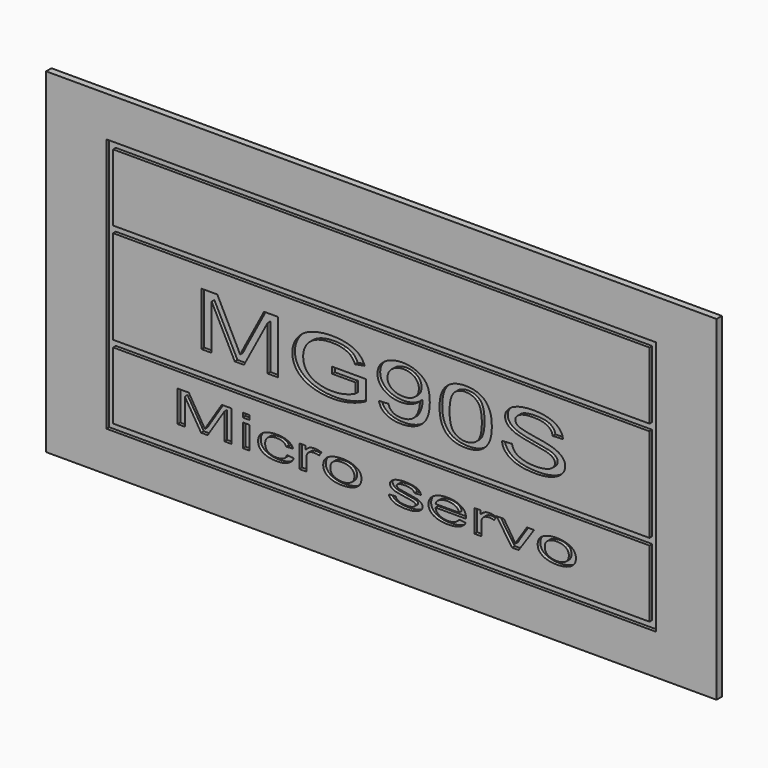
from build123d import *

# Parameters (mm, degrees)
EXTRUDE002_DEPTH = 0.2
EXTRUDE001_DEPTH = 0.2
SKETCH012_W      = 16.4
SKETCH012_H      = 7.6
SKETCH012_W_2    = 16
SKETCH012_H_2    = 2.8
SKETCH012_H_3    = 2
EXTRUDE003_DEPTH = 0.2
SKETCH011_W      = 20
SKETCH011_H      = 10
EXTRUDE_DEPTH    = 0.2


with BuildPart() as extrude002:
    # Clone2D → Extrude002 (new body)
    with BuildSketch(Plane(origin=(-11, -6.1, -8.6), x_dir=(1, 0, 0), z_dir=(0, -1, 0))):
        with BuildLine():
            add(Edge.make_bspline(
                [(0.242548, 0), (0.242548, 1.589265)],
                knots=[0, 0, 1.589265, 1.589265], degree=1))
            add(Edge.make_bspline(
                [(0.547465, 0), (0.242548, 0)],
                knots=[0, 0, 0.203278, 0.203278], degree=1))
            add(Edge.make_bspline(
                [(0.547465, 1.349028), (0.547465, 0)],
                knots=[0, 0, 1.349028, 1.349028], degree=1))
            add(Edge.make_bspline(
                [(1.236885, 0), (0.547465, 1.349028)],
                knots=[0, 0, 1.425174, 1.425174], degree=1))
            add(Edge.make_bspline(
                [(1.51235, 0), (1.236885, 0)],
                knots=[0, 0, 0.183643, 0.183643], degree=1))
            add(Edge.make_bspline(
                [(2.21758, 1.330548), (1.51235, 0)],
                knots=[0, 0, 1.41117, 1.41117], degree=1))
            add(Edge.make_bspline(
                [(2.21758, 0), (2.21758, 1.330548)],
                knots=[0, 0, 1.330548, 1.330548], degree=1))
            add(Edge.make_bspline(
                [(2.522497, 0), (2.21758, 0)],
                knots=[0, 0, 0.203278, 0.203278], degree=1))
            add(Edge.make_bspline(
                [(2.522497, 1.589265), (2.522497, 0)],
                knots=[0, 0, 1.589265, 1.589265], degree=1))
            add(Edge.make_bspline(
                [(2.110382, 1.589265), (2.522497, 1.589265)],
                knots=[0, 0, 0.274743, 0.274743], degree=1))
            add(Edge.make_bspline(
                [(1.52621, 0.484807), (2.110382, 1.589265)],
                knots=[0, 0, 1.17111, 1.17111], degree=1))
            add(Edge.make_bspline(
                [(1.396382, 0.230348), (1.437962, 0.316972), (1.52621, 0.484807)],
                knots=[0, 0, 0, 1, 1, 1], degree=2))
            add(Edge.make_bspline(
                [(1.282038, 0.465316), (1.360433, 0.30831), (1.396382, 0.230348)],
                knots=[0, 0, 0, 1, 1, 1], degree=2))
            add(Edge.make_bspline(
                [(0.715516, 1.589265), (1.282038, 0.465316)],
                knots=[0, 0, 1.185709, 1.185709], degree=1))
            add(Edge.make_bspline(
                [(0.242548, 1.589265), (0.715516, 1.589265)],
                knots=[0, 0, 0.315312, 0.315312], degree=1))
        make_face()
        with BuildLine():
            add(Edge.make_bspline(
                [(4.144102, 0.619074), (4.144102, 0.808493)],
                knots=[0, 0, 0.189418, 0.189418], degree=1))
            add(Edge.make_bspline(
                [(4.837096, 0.619074), (4.144102, 0.619074)],
                knots=[0, 0, 0.461996, 0.461996], degree=1))
            add(Edge.make_bspline(
                [(4.837096, 0.325274), (4.837096, 0.619074)],
                knots=[0, 0, 0.2938, 0.2938], degree=1))
            add(Edge.make_bspline(
                [(4.543331, 0.21389), (4.737045, 0.266081), (4.837096, 0.325274)],
                knots=[0, 0, 0, 1, 1, 1], degree=2))
            add(Edge.make_bspline(
                [(4.146268, 0.161699), (4.349618, 0.161699), (4.543331, 0.21389)],
                knots=[0, 0, 0, 1, 1, 1], degree=2))
            add(Edge.make_bspline(
                [(3.703943, 0.231142), (3.912166, 0.161699), (4.146268, 0.161699)],
                knots=[0, 0, 0, 1, 1, 1], degree=2))
            add(Edge.make_bspline(
                [(3.38679, 0.443805), (3.49572, 0.300586), (3.703943, 0.231142)],
                knots=[0, 0, 0, 1, 1, 1], degree=2))
            add(Edge.make_bspline(
                [(3.27786, 0.79983), (3.27786, 0.587096), (3.38679, 0.443805)],
                knots=[0, 0, 0, 1, 1, 1], degree=2))
            add(Edge.make_bspline(
                [(3.368274, 1.119907), (3.27786, 0.972357), (3.27786, 0.79983)],
                knots=[0, 0, 0, 1, 1, 1], degree=2))
            add(Edge.make_bspline(
                [(3.517592, 1.277274), (3.421548, 1.205665), (3.368274, 1.119907)],
                knots=[0, 0, 0, 1, 1, 1], degree=2))
            add(Edge.make_bspline(
                [(3.77021, 1.392845), (3.613637, 1.348883), (3.517592, 1.277274)],
                knots=[0, 0, 0, 1, 1, 1], degree=2))
            add(Edge.make_bspline(
                [(4.141395, 1.436807), (3.926783, 1.436807), (3.77021, 1.392845)],
                knots=[0, 0, 0, 1, 1, 1], degree=2))
            add(Edge.make_bspline(
                [(4.467427, 1.394866), (4.320599, 1.436807), (4.141395, 1.436807)],
                knots=[0, 0, 0, 1, 1, 1], degree=2))
            add(Edge.make_bspline(
                [(4.693408, 1.283193), (4.614363, 1.352926), (4.467427, 1.394866)],
                knots=[0, 0, 0, 1, 1, 1], degree=2))
            add(Edge.make_bspline(
                [(4.825834, 1.091898), (4.772561, 1.213533), (4.693408, 1.283193)],
                knots=[0, 0, 0, 1, 1, 1], degree=2))
            add(Edge.make_bspline(
                [(5.112885, 1.143873), (4.825834, 1.091898)],
                knots=[0, 0, 0.1983, 0.1983], degree=1))
            add(Edge.make_bspline(
                [(4.93314, 1.4049), (5.051382, 1.304849), (5.112885, 1.143873)],
                knots=[0, 0, 0, 1, 1, 1], degree=2))
            add(Edge.make_bspline(
                [(4.606675, 1.560968), (4.814898, 1.504951), (4.93314, 1.4049)],
                knots=[0, 0, 0, 1, 1, 1], degree=2))
            add(Edge.make_bspline(
                [(4.14107, 1.616985), (4.398561, 1.616985), (4.606675, 1.560968)],
                knots=[0, 0, 0, 1, 1, 1], degree=2))
            add(Edge.make_bspline(
                [(3.514236, 1.519316), (3.786344, 1.616985), (4.14107, 1.616985)],
                knots=[0, 0, 0, 1, 1, 1], degree=2))
            add(Edge.make_bspline(
                [(3.09714, 1.220463), (3.242127, 1.42172), (3.514236, 1.519316)],
                knots=[0, 0, 0, 1, 1, 1], degree=2))
            add(Edge.make_bspline(
                [(2.952153, 0.787053), (2.952153, 1.019206), (3.09714, 1.220463)],
                knots=[0, 0, 0, 1, 1, 1], degree=2))
            add(Edge.make_bspline(
                [(3.097898, 0.362811), (2.952153, 0.552735), (2.952153, 0.787053)],
                knots=[0, 0, 0, 1, 1, 1], degree=2))
            add(Edge.make_bspline(
                [(3.52972, 0.07262), (3.243752, 0.17296), (3.097898, 0.362811)],
                knots=[0, 0, 0, 1, 1, 1], degree=2))
            add(Edge.make_bspline(
                [(4.165541, -0.02772), (3.815688, -0.02772), (3.52972, 0.07262)],
                knots=[0, 0, 0, 1, 1, 1], degree=2))
            add(Edge.make_bspline(
                [(4.670994, 0.034433), (4.424764, -0.02772), (4.165541, -0.02772)],
                knots=[0, 0, 0, 1, 1, 1], degree=2))
            add(Edge.make_bspline(
                [(5.148943, 0.220025), (4.917223, 0.096658), (4.670994, 0.034433)],
                knots=[0, 0, 0, 1, 1, 1], degree=2))
            add(Edge.make_bspline(
                [(5.148943, 0.808493), (5.148943, 0.220025)],
                knots=[0, 0, 0.588467, 0.588467], degree=1))
            add(Edge.make_bspline(
                [(4.144102, 0.808493), (5.148943, 0.808493)],
                knots=[0, 0, 0.669894, 0.669894], degree=1))
        make_face()
        with BuildLine():
            add(Edge.make_bspline(
                [(5.537019, 0.364977), (5.821146, 0.378837)],
                knots=[0, 0, 0.189925, 0.189925], degree=1))
            add(Edge.make_bspline(
                [(5.74914, 0.075291), (5.572643, 0.178374), (5.537019, 0.364977)],
                knots=[0, 0, 0, 1, 1, 1], degree=2))
            add(Edge.make_bspline(
                [(6.20435, -0.02772), (5.925745, -0.02772), (5.74914, 0.075291)],
                knots=[0, 0, 0, 1, 1, 1], degree=2))
            add(Edge.make_bspline(
                [(6.661834, 0.066773), (6.466713, -0.02772), (6.20435, -0.02772)],
                knots=[0, 0, 0, 1, 1, 1], degree=2))
            add(Edge.make_bspline(
                [(6.955815, 0.342166), (6.857064, 0.161265), (6.661834, 0.066773)],
                knots=[0, 0, 0, 1, 1, 1], degree=2))
            add(Edge.make_bspline(
                [(7.054675, 0.828272), (7.054675, 0.523066), (6.955815, 0.342166)],
                knots=[0, 0, 0, 1, 1, 1], degree=2))
            add(Edge.make_bspline(
                [(6.955166, 1.276408), (7.054675, 1.121639), (7.054675, 0.828272)],
                knots=[0, 0, 0, 1, 1, 1], degree=2))
            add(Edge.make_bspline(
                [(6.664, 1.514841), (6.855764, 1.431176), (6.955166, 1.276408)],
                knots=[0, 0, 0, 1, 1, 1], degree=2))
            add(Edge.make_bspline(
                [(6.241057, 1.598505), (6.472344, 1.598505), (6.664, 1.514841)],
                knots=[0, 0, 0, 1, 1, 1], degree=2))
            add(Edge.make_bspline(
                [(5.708102, 1.450883), (5.920873, 1.598505), (6.241057, 1.598505)],
                knots=[0, 0, 0, 1, 1, 1], degree=2))
            add(Edge.make_bspline(
                [(5.495439, 1.061363), (5.495439, 1.303333), (5.708102, 1.450883)],
                knots=[0, 0, 0, 1, 1, 1], degree=2))
            add(Edge.make_bspline(
                [(5.69814, 0.683754), (5.495439, 0.826972), (5.495439, 1.061363)],
                knots=[0, 0, 0, 1, 1, 1], degree=2))
            add(Edge.make_bspline(
                [(6.193631, 0.540535), (5.900841, 0.540535), (5.69814, 0.683754)],
                knots=[0, 0, 0, 1, 1, 1], degree=2))
            add(Edge.make_bspline(
                [(6.519338, 0.598429), (6.368936, 0.540535), (6.193631, 0.540535)],
                knots=[0, 0, 0, 1, 1, 1], degree=2))
            add(Edge.make_bspline(
                [(6.756688, 0.749516), (6.669847, 0.656395), (6.519338, 0.598429)],
                knots=[0, 0, 0, 1, 1, 1], degree=2))
            add(Edge.make_bspline(
                [(6.758312, 0.710535), (6.758312, 0.723529), (6.756688, 0.749516)],
                knots=[0, 0, 0, 1, 1, 1], degree=2))
            add(Edge.make_bspline(
                [(6.715, 0.471958), (6.758312, 0.589261), (6.758312, 0.710535)],
                knots=[0, 0, 0, 1, 1, 1], degree=2))
            add(Edge.make_bspline(
                [(6.609427, 0.285571), (6.671796, 0.354654), (6.715, 0.471958)],
                knots=[0, 0, 0, 1, 1, 1], degree=2))
            add(Edge.make_bspline(
                [(6.445166, 0.17527), (6.547057, 0.216561), (6.609427, 0.285571)],
                knots=[0, 0, 0, 1, 1, 1], degree=2))
            add(Edge.make_bspline(
                [(6.210414, 0.133979), (6.343382, 0.133979), (6.445166, 0.17527)],
                knots=[0, 0, 0, 1, 1, 1], degree=2))
            add(Edge.make_bspline(
                [(5.955631, 0.192017), (6.055032, 0.133979), (6.210414, 0.133979)],
                knots=[0, 0, 0, 1, 1, 1], degree=2))
            add(Edge.make_bspline(
                [(5.821146, 0.378837), (5.856338, 0.250055), (5.955631, 0.192017)],
                knots=[0, 0, 0, 1, 1, 1], degree=2))
        make_face()
        with BuildLine():
            add(Edge.make_bspline(
                [(6.728968, 1.070314), (6.728968, 1.23887), (6.597408, 1.337839)],
                knots=[0, 0, 0, 1, 1, 1], degree=2))
            add(Edge.make_bspline(
                [(6.598924, 0.806616), (6.728968, 0.901758), (6.728968, 1.070314)],
                knots=[0, 0, 0, 1, 1, 1], degree=2))
            add(Edge.make_bspline(
                [(6.266828, 0.711473), (6.468879, 0.711473), (6.598924, 0.806616)],
                knots=[0, 0, 0, 1, 1, 1], degree=2))
            add(Edge.make_bspline(
                [(5.928236, 0.806616), (6.063045, 0.711473), (6.266828, 0.711473)],
                knots=[0, 0, 0, 1, 1, 1], degree=2))
            add(Edge.make_bspline(
                [(5.793427, 1.054), (5.793427, 0.901758), (5.928236, 0.806616)],
                knots=[0, 0, 0, 1, 1, 1], degree=2))
            add(Edge.make_bspline(
                [(5.93549, 1.330187), (5.793427, 1.223639), (5.793427, 1.054)],
                knots=[0, 0, 0, 1, 1, 1], degree=2))
            add(Edge.make_bspline(
                [(6.274949, 1.436807), (6.077554, 1.436807), (5.93549, 1.330187)],
                knots=[0, 0, 0, 1, 1, 1], degree=2))
            add(Edge.make_bspline(
                [(6.597408, 1.337839), (6.465847, 1.436807), (6.274949, 1.436807)],
                knots=[0, 0, 0, 1, 1, 1], degree=2))
        make_face(mode=Mode.SUBTRACT)
        with BuildLine():
            add(Edge.make_bspline(
                [(7.345732, 0.784815), (7.345732, 1.067282), (7.433006, 1.240603)],
                knots=[0, 0, 0, 1, 1, 1], degree=2))
            add(Edge.make_bspline(
                [(7.582217, 0.135062), (7.345732, 0.336174), (7.345732, 0.784815)],
                knots=[0, 0, 0, 1, 1, 1], degree=2))
            add(Edge.make_bspline(
                [(8.12535, -0.02772), (7.779611, -0.02772), (7.582217, 0.135062)],
                knots=[0, 0, 0, 1, 1, 1], degree=2))
            add(Edge.make_bspline(
                [(8.559987, 0.06504), (8.38793, -0.02772), (8.12535, -0.02772)],
                knots=[0, 0, 0, 1, 1, 1], degree=2))
            add(Edge.make_bspline(
                [(8.818452, 0.331193), (8.732045, 0.157873), (8.559987, 0.06504)],
                knots=[0, 0, 0, 1, 1, 1], degree=2))
            add(Edge.make_bspline(
                [(8.904968, 0.784815), (8.904968, 0.504586), (8.818452, 0.331193)],
                knots=[0, 0, 0, 1, 1, 1], degree=2))
            add(Edge.make_bspline(
                [(8.851153, 1.16127), (8.904968, 1.02166), (8.904968, 0.784815)],
                knots=[0, 0, 0, 1, 1, 1], degree=2))
            add(Edge.make_bspline(
                [(8.704433, 1.398042), (8.797338, 1.300879), (8.851153, 1.16127)],
                knots=[0, 0, 0, 1, 1, 1], degree=2))
            add(Edge.make_bspline(
                [(8.464701, 1.546892), (8.611637, 1.495278), (8.704433, 1.398042)],
                knots=[0, 0, 0, 1, 1, 1], degree=2))
            add(Edge.make_bspline(
                [(8.12535, 1.598505), (8.317764, 1.598505), (8.464701, 1.546892)],
                knots=[0, 0, 0, 1, 1, 1], degree=2))
            add(Edge.make_bspline(
                [(7.692338, 1.506251), (7.864395, 1.598505), (8.12535, 1.598505)],
                knots=[0, 0, 0, 1, 1, 1], degree=2))
            add(Edge.make_bspline(
                [(7.433006, 1.240603), (7.52028, 1.413996), (7.692338, 1.506251)],
                knots=[0, 0, 0, 1, 1, 1], degree=2))
        make_face()
        with BuildLine():
            add(Edge.make_bspline(
                [(7.64372, 0.785393), (7.64372, 0.39118), (7.782643, 0.262544)],
                knots=[0, 0, 0, 1, 1, 1], degree=2))
            add(Edge.make_bspline(
                [(7.794879, 1.322824), (7.64372, 1.177295), (7.64372, 0.785393)],
                knots=[0, 0, 0, 1, 1, 1], degree=2))
            add(Edge.make_bspline(
                [(8.122102, 1.436807), (7.91821, 1.436807), (7.794879, 1.322824)],
                knots=[0, 0, 0, 1, 1, 1], degree=2))
            add(Edge.make_bspline(
                [(8.468924, 1.307592), (8.330866, 1.436807), (8.122102, 1.436807)],
                knots=[0, 0, 0, 1, 1, 1], degree=2))
            add(Edge.make_bspline(
                [(8.606981, 0.785393), (8.606981, 1.178378), (8.468924, 1.307592)],
                knots=[0, 0, 0, 1, 1, 1], degree=2))
            add(Edge.make_bspline(
                [(8.468057, 0.263121), (8.606981, 0.392263), (8.606981, 0.785393)],
                knots=[0, 0, 0, 1, 1, 1], degree=2))
            add(Edge.make_bspline(
                [(8.12535, 0.133979), (8.329134, 0.133979), (8.468057, 0.263121)],
                knots=[0, 0, 0, 1, 1, 1], degree=2))
            add(Edge.make_bspline(
                [(7.782643, 0.262544), (7.921567, 0.133979), (8.12535, 0.133979)],
                knots=[0, 0, 0, 1, 1, 1], degree=2))
        make_face(mode=Mode.SUBTRACT)
        with BuildLine():
            add(Edge.make_bspline(
                [(9.209885, 0.508195), (9.507873, 0.526675)],
                knots=[0, 0, 0.199516, 0.199516], degree=1))
            add(Edge.make_bspline(
                [(9.33993, 0.22349), (9.216382, 0.349384), (9.209885, 0.508195)],
                knots=[0, 0, 0, 1, 1, 1], degree=2))
            add(Edge.make_bspline(
                [(9.680688, 0.034938), (9.463478, 0.097597), (9.33993, 0.22349)],
                knots=[0, 0, 0, 1, 1, 1], degree=2))
            add(Edge.make_bspline(
                [(10.219382, -0.02772), (9.898006, -0.02772), (9.680688, 0.034938)],
                knots=[0, 0, 0, 1, 1, 1], degree=2))
            add(Edge.make_bspline(
                [(10.675675, 0.034505), (10.472975, -0.02772), (10.219382, -0.02772)],
                knots=[0, 0, 0, 1, 1, 1], degree=2))
            add(Edge.make_bspline(
                [(10.986548, 0.208837), (10.878376, 0.096803), (10.675675, 0.034505)],
                knots=[0, 0, 0, 1, 1, 1], degree=2))
            add(Edge.make_bspline(
                [(11.094828, 0.447558), (11.094828, 0.32087), (10.986548, 0.208837)],
                knots=[0, 0, 0, 1, 1, 1], degree=2))
            add(Edge.make_bspline(
                [(10.995968, 0.673287), (11.094828, 0.575329), (11.094828, 0.447558)],
                knots=[0, 0, 0, 1, 1, 1], degree=2))
            add(Edge.make_bspline(
                [(10.689535, 0.83513), (10.897108, 0.771244), (10.995968, 0.673287)],
                knots=[0, 0, 0, 1, 1, 1], degree=2))
            add(Edge.make_bspline(
                [(10.166758, 0.936263), (10.54693, 0.878442), (10.689535, 0.83513)],
                knots=[0, 0, 0, 1, 1, 1], degree=2))
            add(Edge.make_bspline(
                [(9.696497, 1.049163), (9.786586, 0.994085), (10.166758, 0.936263)],
                knots=[0, 0, 0, 1, 1, 1], degree=2))
            add(Edge.make_bspline(
                [(9.604892, 1.189711), (9.604892, 1.104314), (9.696497, 1.049163)],
                knots=[0, 0, 0, 1, 1, 1], degree=2))
            add(Edge.make_bspline(
                [(9.734287, 1.357834), (9.604892, 1.288102), (9.604892, 1.189711)],
                knots=[0, 0, 0, 1, 1, 1], degree=2))
            add(Edge.make_bspline(
                [(10.146726, 1.427567), (9.863682, 1.427567), (9.734287, 1.357834)],
                knots=[0, 0, 0, 1, 1, 1], degree=2))
            add(Edge.make_bspline(
                [(10.557433, 1.351699), (10.418401, 1.427567), (10.146726, 1.427567)],
                knots=[0, 0, 0, 1, 1, 1], degree=2))
            add(Edge.make_bspline(
                [(10.720611, 1.12727), (10.696465, 1.27583), (10.557433, 1.351699)],
                knots=[0, 0, 0, 1, 1, 1], degree=2))
            add(Edge.make_bspline(
                [(11.025529, 1.14113), (10.720611, 1.12727)],
                knots=[0, 0, 0.20375, 0.20375], degree=1))
            add(Edge.make_bspline(
                [(10.909019, 1.392051), (11.017408, 1.281244), (11.025529, 1.14113)],
                knots=[0, 0, 0, 1, 1, 1], degree=2))
            add(Edge.make_bspline(
                [(10.599338, 1.559958), (10.800739, 1.50293), (10.909019, 1.392051)],
                knots=[0, 0, 0, 1, 1, 1], degree=2))
            add(Edge.make_bspline(
                [(10.13449, 1.616985), (10.398045, 1.616985), (10.599338, 1.559958)],
                knots=[0, 0, 0, 1, 1, 1], degree=2))
            add(Edge.make_bspline(
                [(9.69942, 1.562628), (9.895083, 1.616985), (10.13449, 1.616985)],
                knots=[0, 0, 0, 1, 1, 1], degree=2))
            add(Edge.make_bspline(
                [(9.401866, 1.403384), (9.503758, 1.508272), (9.69942, 1.562628)],
                knots=[0, 0, 0, 1, 1, 1], degree=2))
            add(Edge.make_bspline(
                [(9.299975, 1.177873), (9.299975, 1.298497), (9.401866, 1.403384)],
                knots=[0, 0, 0, 1, 1, 1], degree=2))
            add(Edge.make_bspline(
                [(9.383459, 0.979503), (9.299975, 1.068076), (9.299975, 1.177873)],
                knots=[0, 0, 0, 1, 1, 1], degree=2))
            add(Edge.make_bspline(
                [(9.637376, 0.831087), (9.467051, 0.89093), (9.383459, 0.979503)],
                knots=[0, 0, 0, 1, 1, 1], degree=2))
            add(Edge.make_bspline(
                [(10.093561, 0.731902), (9.768828, 0.784382), (9.637376, 0.831087)],
                knots=[0, 0, 0, 1, 1, 1], degree=2))
            add(Edge.make_bspline(
                [(10.513255, 0.654662), (10.418401, 0.679495), (10.093561, 0.731902)],
                knots=[0, 0, 0, 1, 1, 1], degree=2))
            add(Edge.make_bspline(
                [(10.725484, 0.561108), (10.661166, 0.616837), (10.513255, 0.654662)],
                knots=[0, 0, 0, 1, 1, 1], degree=2))
            add(Edge.make_bspline(
                [(10.789911, 0.430739), (10.789911, 0.50538), (10.725484, 0.561108)],
                knots=[0, 0, 0, 1, 1, 1], degree=2))
            add(Edge.make_bspline(
                [(10.723102, 0.295028), (10.789911, 0.35718), (10.789911, 0.430739)],
                knots=[0, 0, 0, 1, 1, 1], degree=2))
            add(Edge.make_bspline(
                [(10.519643, 0.197287), (10.656401, 0.232947), (10.723102, 0.295028)],
                knots=[0, 0, 0, 1, 1, 1], degree=2))
            add(Edge.make_bspline(
                [(10.204439, 0.161699), (10.382994, 0.161699), (10.519643, 0.197287)],
                knots=[0, 0, 0, 1, 1, 1], degree=2))
            add(Edge.make_bspline(
                [(9.842459, 0.20862), (10.003363, 0.161699), (10.204439, 0.161699)],
                knots=[0, 0, 0, 1, 1, 1], degree=2))
            add(Edge.make_bspline(
                [(9.605108, 0.331771), (9.681554, 0.255614), (9.842459, 0.20862)],
                knots=[0, 0, 0, 1, 1, 1], degree=2))
            add(Edge.make_bspline(
                [(9.507873, 0.526675), (9.528771, 0.407928), (9.605108, 0.331771)],
                knots=[0, 0, 0, 1, 1, 1], degree=2))
        make_face()
    extrude(amount=EXTRUDE002_DEPTH)


with BuildPart() as extrude002_1:
    # Extrude002 placement: moved
    add(extrude002.part.moved(Location((0, 0, -0.4))))


with BuildPart() as compound:
    # Clone2D001 → Extrude001 (new body)
    with BuildSketch(Plane(origin=(-11.64, -6.1, -11.2), x_dir=(1, 0, 0), z_dir=(0, -1, 0))):
        with BuildLine():
            add(Edge.make_bspline(
                [(0.17121, 0), (0.17121, 0.934862)],
                knots=[0, 0, 0.934862, 0.934862], degree=1))
            add(Edge.make_bspline(
                [(0.386446, 0), (0.17121, 0)],
                knots=[0, 0, 0.119575, 0.119575], degree=1))
            add(Edge.make_bspline(
                [(0.386446, 0.793546), (0.386446, 0)],
                knots=[0, 0, 0.793546, 0.793546], degree=1))
            add(Edge.make_bspline(
                [(0.873096, 0), (0.386446, 0.793546)],
                knots=[0, 0, 0.838337, 0.838337], degree=1))
            add(Edge.make_bspline(
                [(1.067541, 0), (0.873096, 0)],
                knots=[0, 0, 0.108025, 0.108025], degree=1))
            add(Edge.make_bspline(
                [(1.56535, 0.782675), (1.067541, 0)],
                knots=[0, 0, 0.8301, 0.8301], degree=1))
            add(Edge.make_bspline(
                [(1.56535, 0), (1.56535, 0.782675)],
                knots=[0, 0, 0.782675, 0.782675], degree=1))
            add(Edge.make_bspline(
                [(1.780586, 0), (1.56535, 0)],
                knots=[0, 0, 0.119575, 0.119575], degree=1))
            add(Edge.make_bspline(
                [(1.780586, 0.934862), (1.780586, 0)],
                knots=[0, 0, 0.934862, 0.934862], degree=1))
            add(Edge.make_bspline(
                [(1.489682, 0.934862), (1.780586, 0.934862)],
                knots=[0, 0, 0.161614, 0.161614], degree=1))
            add(Edge.make_bspline(
                [(1.077325, 0.28518), (1.489682, 0.934862)],
                knots=[0, 0, 0.688888, 0.688888], degree=1))
            add(Edge.make_bspline(
                [(0.985682, 0.135499), (1.015032, 0.186454), (1.077325, 0.28518)],
                knots=[0, 0, 0, 1, 1, 1], degree=2))
            add(Edge.make_bspline(
                [(0.904968, 0.273715), (0.960306, 0.181359), (0.985682, 0.135499)],
                knots=[0, 0, 0, 1, 1, 1], degree=2))
            add(Edge.make_bspline(
                [(0.50507, 0.934862), (0.904968, 0.273715)],
                knots=[0, 0, 0.697476, 0.697476], degree=1))
            add(Edge.make_bspline(
                [(0.17121, 0.934862), (0.50507, 0.934862)],
                knots=[0, 0, 0.185478, 0.185478], degree=1))
        make_face()
        with BuildLine():
            add(Edge.make_bspline(
                [(2.118115, 0), (2.118115, 0.676688)],
                knots=[0, 0, 0.676688, 0.676688], degree=1))
            add(Edge.make_bspline(
                [(2.323567, 0), (2.118115, 0)],
                knots=[0, 0, 0.11414, 0.11414], degree=1))
            add(Edge.make_bspline(
                [(2.323567, 0.676688), (2.323567, 0)],
                knots=[0, 0, 0.676688, 0.676688], degree=1))
            add(Edge.make_bspline(
                [(2.118115, 0.676688), (2.323567, 0.676688)],
                knots=[0, 0, 0.11414, 0.11414], degree=1))
        make_face()
        with BuildLine():
            add(Edge.make_bspline(
                [(2.118115, 0.804416), (2.118115, 0.934862)],
                knots=[0, 0, 0.130446, 0.130446], degree=1))
            add(Edge.make_bspline(
                [(2.323567, 0.804416), (2.118115, 0.804416)],
                knots=[0, 0, 0.11414, 0.11414], degree=1))
            add(Edge.make_bspline(
                [(2.323567, 0.934862), (2.323567, 0.804416)],
                knots=[0, 0, 0.130446, 0.130446], degree=1))
            add(Edge.make_bspline(
                [(2.118115, 0.934862), (2.323567, 0.934862)],
                knots=[0, 0, 0.11414, 0.11414], degree=1))
        make_face()
        with BuildLine():
            add(Edge.make_bspline(
                [(3.433987, 0.247304), (3.634548, 0.230998)],
                knots=[0, 0, 0.112609, 0.112609], degree=1))
            add(Edge.make_bspline(
                [(3.329962, 0.122166), (3.412051, 0.162845), (3.433987, 0.247304)],
                knots=[0, 0, 0, 1, 1, 1], degree=2))
            add(Edge.make_bspline(
                [(3.125427, 0.081529), (3.247949, 0.081529), (3.329962, 0.122166)],
                knots=[0, 0, 0, 1, 1, 1], degree=2))
            add(Edge.make_bspline(
                [(2.878166, 0.142718), (2.972943, 0.081529), (3.125427, 0.081529)],
                knots=[0, 0, 0, 1, 1, 1], degree=2))
            add(Edge.make_bspline(
                [(2.783389, 0.338981), (2.783389, 0.203949), (2.878166, 0.142718)],
                knots=[0, 0, 0, 1, 1, 1], degree=2))
            add(Edge.make_bspline(
                [(2.881223, 0.533631), (2.783389, 0.472102), (2.783389, 0.338981)],
                knots=[0, 0, 0, 1, 1, 1], degree=2))
            add(Edge.make_bspline(
                [(3.135745, 0.595159), (2.979134, 0.595159), (2.881223, 0.533631)],
                knots=[0, 0, 0, 1, 1, 1], degree=2))
            add(Edge.make_bspline(
                [(3.312459, 0.561019), (3.239389, 0.595159), (3.135745, 0.595159)],
                knots=[0, 0, 0, 1, 1, 1], degree=2))
            add(Edge.make_bspline(
                [(3.41442, 0.459278), (3.385605, 0.526921), (3.312459, 0.561019)],
                knots=[0, 0, 0, 1, 1, 1], degree=2))
            add(Edge.make_bspline(
                [(3.614981, 0.475584), (3.41442, 0.459278)],
                knots=[0, 0, 0.112609, 0.112609], degree=1))
            add(Edge.make_bspline(
                [(3.453172, 0.634352), (3.579439, 0.578471), (3.614981, 0.475584)],
                knots=[0, 0, 0, 1, 1, 1], degree=2))
            add(Edge.make_bspline(
                [(3.128408, 0.690276), (3.326981, 0.690276), (3.453172, 0.634352)],
                knots=[0, 0, 0, 1, 1, 1], degree=2))
            add(Edge.make_bspline(
                [(2.83758, 0.649384), (2.971261, 0.690276), (3.128408, 0.690276)],
                knots=[0, 0, 0, 1, 1, 1], degree=2))
            add(Edge.make_bspline(
                [(2.638471, 0.526667), (2.703898, 0.608493), (2.83758, 0.649384)],
                knots=[0, 0, 0, 1, 1, 1], degree=2))
            add(Edge.make_bspline(
                [(2.573045, 0.335796), (2.573045, 0.444883), (2.638471, 0.526667)],
                knots=[0, 0, 0, 1, 1, 1], degree=2))
            add(Edge.make_bspline(
                [(2.72507, 0.076773), (2.573045, 0.167134), (2.573045, 0.335796)],
                knots=[0, 0, 0, 1, 1, 1], degree=2))
            add(Edge.make_bspline(
                [(3.127338, -0.013588), (2.877172, -0.013588), (2.72507, 0.076773)],
                knots=[0, 0, 0, 1, 1, 1], degree=2))
            add(Edge.make_bspline(
                [(3.464102, 0.051295), (3.326981, -0.013588), (3.127338, -0.013588)],
                knots=[0, 0, 0, 1, 1, 1], degree=2))
            add(Edge.make_bspline(
                [(3.634548, 0.230998), (3.601299, 0.116221), (3.464102, 0.051295)],
                knots=[0, 0, 0, 1, 1, 1], degree=2))
        make_face()
        with BuildLine():
            add(Edge.make_bspline(
                [(3.805758, 0), (3.805758, 0.676688)],
                knots=[0, 0, 0.676688, 0.676688], degree=1))
            add(Edge.make_bspline(
                [(4.01121, 0), (3.805758, 0)],
                knots=[0, 0, 0.11414, 0.11414], degree=1))
            add(Edge.make_bspline(
                [(4.01121, 0.352569), (4.01121, 0)],
                knots=[0, 0, 0.352569, 0.352569], degree=1))
            add(Edge.make_bspline(
                [(4.045758, 0.485732), (4.01121, 0.424883), (4.01121, 0.352569)],
                knots=[0, 0, 0, 1, 1, 1], degree=2))
            add(Edge.make_bspline(
                [(4.122268, 0.548195), (4.068841, 0.52569), (4.045758, 0.485732)],
                knots=[0, 0, 0, 1, 1, 1], degree=2))
            add(Edge.make_bspline(
                [(4.242803, 0.570701), (4.175694, 0.570701), (4.122268, 0.548195)],
                knots=[0, 0, 0, 1, 1, 1], degree=2))
            add(Edge.make_bspline(
                [(4.392841, 0.549087), (4.317783, 0.570701), (4.242803, 0.570701)],
                knots=[0, 0, 0, 1, 1, 1], degree=2))
            add(Edge.make_bspline(
                [(4.46614, 0.654437), (4.392841, 0.549087)],
                knots=[0, 0, 0.112947, 0.112947], degree=1))
            add(Edge.make_bspline(
                [(4.25465, 0.690276), (4.358675, 0.690276), (4.46614, 0.654437)],
                knots=[0, 0, 0, 1, 1, 1], degree=2))
            add(Edge.make_bspline(
                [(4.122497, 0.667134), (4.182573, 0.690276), (4.25465, 0.690276)],
                knots=[0, 0, 0, 1, 1, 1], degree=2))
            add(Edge.make_bspline(
                [(3.991643, 0.571338), (4.062497, 0.643992), (4.122497, 0.667134)],
                knots=[0, 0, 0, 1, 1, 1], degree=2))
            add(Edge.make_bspline(
                [(3.991643, 0.676688), (3.991643, 0.571338)],
                knots=[0, 0, 0.10535, 0.10535], degree=1))
            add(Edge.make_bspline(
                [(3.805758, 0.676688), (3.991643, 0.676688)],
                knots=[0, 0, 0.10327, 0.10327], degree=1))
        make_face()
        with BuildLine():
            add(Edge.make_bspline(
                [(4.515057, 0.338344), (4.515057, 0.525393), (4.70293, 0.615456)],
                knots=[0, 0, 0, 1, 1, 1], degree=2))
            add(Edge.make_bspline(
                [(4.67251, 0.07707), (4.515057, 0.167771), (4.515057, 0.338344)],
                knots=[0, 0, 0, 1, 1, 1], degree=2))
            add(Edge.make_bspline(
                [(5.085478, -0.013588), (4.830038, -0.013588), (4.67251, 0.07707)],
                knots=[0, 0, 0, 1, 1, 1], degree=2))
            add(Edge.make_bspline(
                [(5.379363, 0.027601), (5.244764, -0.013588), (5.085478, -0.013588)],
                knots=[0, 0, 0, 1, 1, 1], degree=2))
            add(Edge.make_bspline(
                [(5.584357, 0.143355), (5.513962, 0.068832), (5.379363, 0.027601)],
                knots=[0, 0, 0, 1, 1, 1], degree=2))
            add(Edge.make_bspline(
                [(5.654828, 0.347856), (5.654828, 0.217877), (5.584357, 0.143355)],
                knots=[0, 0, 0, 1, 1, 1], degree=2))
            add(Edge.make_bspline(
                [(5.495618, 0.599278), (5.654828, 0.50828), (5.654828, 0.347856)],
                knots=[0, 0, 0, 1, 1, 1], degree=2))
            add(Edge.make_bspline(
                [(5.085478, 0.690276), (5.336408, 0.690276), (5.495618, 0.599278)],
                knots=[0, 0, 0, 1, 1, 1], degree=2))
            add(Edge.make_bspline(
                [(4.70293, 0.615456), (4.859847, 0.690276), (5.085478, 0.690276)],
                knots=[0, 0, 0, 1, 1, 1], degree=2))
        make_face()
        with BuildLine():
            add(Edge.make_bspline(
                [(4.725401, 0.338641), (4.725401, 0.209766), (4.827745, 0.145648)],
                knots=[0, 0, 0, 1, 1, 1], degree=2))
            add(Edge.make_bspline(
                [(4.827745, 0.531338), (4.725401, 0.467558), (4.725401, 0.338641)],
                knots=[0, 0, 0, 1, 1, 1], degree=2))
            add(Edge.make_bspline(
                [(5.085554, 0.595159), (4.930166, 0.595159), (4.827745, 0.531338)],
                knots=[0, 0, 0, 1, 1, 1], degree=2))
            add(Edge.make_bspline(
                [(5.341529, 0.53104), (5.238573, 0.595159), (5.085554, 0.595159)],
                knots=[0, 0, 0, 1, 1, 1], degree=2))
            add(Edge.make_bspline(
                [(5.444484, 0.342463), (5.444484, 0.466921), (5.341529, 0.53104)],
                knots=[0, 0, 0, 1, 1, 1], degree=2))
            add(Edge.make_bspline(
                [(5.342064, 0.145945), (5.444484, 0.210403), (5.444484, 0.342463)],
                knots=[0, 0, 0, 1, 1, 1], degree=2))
            add(Edge.make_bspline(
                [(5.085554, 0.081529), (5.23972, 0.081529), (5.342064, 0.145945)],
                knots=[0, 0, 0, 1, 1, 1], degree=2))
            add(Edge.make_bspline(
                [(4.827745, 0.145648), (4.930166, 0.081529), (5.085554, 0.081529)],
                knots=[0, 0, 0, 1, 1, 1], degree=2))
        make_face(mode=Mode.SUBTRACT)
        with BuildLine():
            add(Edge.make_bspline(
                [(6.471745, 0.203822), (6.677197, 0.220127)],
                knots=[0, 0, 0.115299, 0.115299], degree=1))
            add(Edge.make_bspline(
                [(6.629962, 0.041231), (6.505987, 0.096093), (6.471745, 0.203822)],
                knots=[0, 0, 0, 1, 1, 1], degree=2))
            add(Edge.make_bspline(
                [(6.99042, -0.013588), (6.753936, -0.013588), (6.629962, 0.041231)],
                knots=[0, 0, 0, 1, 1, 1], degree=2))
            add(Edge.make_bspline(
                [(7.246318, 0.014013), (7.133274, -0.013588), (6.99042, -0.013588)],
                knots=[0, 0, 0, 1, 1, 1], degree=2))
            add(Edge.make_bspline(
                [(7.419439, 0.092144), (7.359439, 0.041656), (7.246318, 0.014013)],
                knots=[0, 0, 0, 1, 1, 1], degree=2))
            add(Edge.make_bspline(
                [(7.479439, 0.199745), (7.479439, 0.142633), (7.419439, 0.092144)],
                knots=[0, 0, 0, 1, 1, 1], degree=2))
            add(Edge.make_bspline(
                [(7.430675, 0.297537), (7.479439, 0.258174), (7.479439, 0.199745)],
                knots=[0, 0, 0, 1, 1, 1], degree=2))
            add(Edge.make_bspline(
                [(7.296382, 0.357537), (7.381987, 0.3369), (7.430675, 0.297537)],
                knots=[0, 0, 0, 1, 1, 1], degree=2))
            add(Edge.make_bspline(
                [(6.992408, 0.410573), (7.210854, 0.378174), (7.296382, 0.357537)],
                knots=[0, 0, 0, 1, 1, 1], degree=2))
            add(Edge.make_bspline(
                [(6.810573, 0.439448), (6.841452, 0.433163), (6.992408, 0.410573)],
                knots=[0, 0, 0, 1, 1, 1], degree=2))
            add(Edge.make_bspline(
                [(6.731694, 0.469597), (6.756841, 0.45138), (6.810573, 0.439448)],
                knots=[0, 0, 0, 1, 1, 1], degree=2))
            add(Edge.make_bspline(
                [(6.706548, 0.50913), (6.706548, 0.487176), (6.731694, 0.469597)],
                knots=[0, 0, 0, 1, 1, 1], degree=2))
            add(Edge.make_bspline(
                [(6.767159, 0.569427), (6.706548, 0.543694), (6.706548, 0.50913)],
                knots=[0, 0, 0, 1, 1, 1], degree=2))
            add(Edge.make_bspline(
                [(6.969554, 0.595159), (6.827771, 0.595159), (6.767159, 0.569427)],
                knots=[0, 0, 0, 1, 1, 1], degree=2))
            add(Edge.make_bspline(
                [(7.155363, 0.56569), (7.089631, 0.595159), (6.969554, 0.595159)],
                knots=[0, 0, 0, 1, 1, 1], degree=2))
            add(Edge.make_bspline(
                [(7.234854, 0.483737), (7.221096, 0.536263), (7.155363, 0.56569)],
                knots=[0, 0, 0, 1, 1, 1], degree=2))
            add(Edge.make_bspline(
                [(7.435414, 0.500042), (7.234854, 0.483737)],
                knots=[0, 0, 0.112609, 0.112609], degree=1))
            add(Edge.make_bspline(
                [(7.364408, 0.605053), (7.415924, 0.565775), (7.435414, 0.500042)],
                knots=[0, 0, 0, 1, 1, 1], degree=2))
            add(Edge.make_bspline(
                [(7.204739, 0.667304), (7.312968, 0.644331), (7.364408, 0.605053)],
                knots=[0, 0, 0, 1, 1, 1], degree=2))
            add(Edge.make_bspline(
                [(6.953503, 0.690276), (7.096586, 0.690276), (7.204739, 0.667304)],
                knots=[0, 0, 0, 1, 1, 1], degree=2))
            add(Edge.make_bspline(
                [(6.77549, 0.676603), (6.858497, 0.690276), (6.953503, 0.690276)],
                knots=[0, 0, 0, 1, 1, 1], degree=2))
            add(Edge.make_bspline(
                [(6.644484, 0.64327), (6.692561, 0.662972), (6.77549, 0.676603)],
                knots=[0, 0, 0, 1, 1, 1], degree=2))
            add(Edge.make_bspline(
                [(6.543134, 0.579448), (6.580357, 0.617877), (6.644484, 0.64327)],
                knots=[0, 0, 0, 1, 1, 1], degree=2))
            add(Edge.make_bspline(
                [(6.505987, 0.495924), (6.505987, 0.541019), (6.543134, 0.579448)],
                knots=[0, 0, 0, 1, 1, 1], degree=2))
            add(Edge.make_bspline(
                [(6.551389, 0.405435), (6.505987, 0.446412), (6.505987, 0.495924)],
                knots=[0, 0, 0, 1, 1, 1], degree=2))
            add(Edge.make_bspline(
                [(6.684841, 0.341316), (6.596866, 0.364501), (6.551389, 0.405435)],
                knots=[0, 0, 0, 1, 1, 1], degree=2))
            add(Edge.make_bspline(
                [(6.999287, 0.286369), (6.772892, 0.318132), (6.684841, 0.341316)],
                knots=[0, 0, 0, 1, 1, 1], degree=2))
            add(Edge.make_bspline(
                [(7.209172, 0.248025), (7.167363, 0.2631), (6.999287, 0.286369)],
                knots=[0, 0, 0, 1, 1, 1], degree=2))
            add(Edge.make_bspline(
                [(7.269096, 0.187728), (7.269096, 0.22603), (7.209172, 0.248025)],
                knots=[0, 0, 0, 1, 1, 1], degree=2))
            add(Edge.make_bspline(
                [(7.200611, 0.113248), (7.269096, 0.145011), (7.269096, 0.187728)],
                knots=[0, 0, 0, 1, 1, 1], degree=2))
            add(Edge.make_bspline(
                [(6.990803, 0.081529), (7.132204, 0.081529), (7.200611, 0.113248)],
                knots=[0, 0, 0, 1, 1, 1], degree=2))
            add(Edge.make_bspline(
                [(6.772433, 0.117282), (6.850548, 0.081529), (6.990803, 0.081529)],
                knots=[0, 0, 0, 1, 1, 1], degree=2))
            add(Edge.make_bspline(
                [(6.677197, 0.220127), (6.694318, 0.153036), (6.772433, 0.117282)],
                knots=[0, 0, 0, 1, 1, 1], degree=2))
        make_face()
        with BuildLine():
            add(Edge.make_bspline(
                [(8.563032, 0.220127), (8.769096, 0.203822)],
                knots=[0, 0, 0.115635, 0.115635], degree=1))
            add(Edge.make_bspline(
                [(8.434242, 0.114565), (8.51549, 0.147643), (8.563032, 0.220127)],
                knots=[0, 0, 0, 1, 1, 1], degree=2))
            add(Edge.make_bspline(
                [(8.238268, 0.081529), (8.35307, 0.081529), (8.434242, 0.114565)],
                knots=[0, 0, 0, 1, 1, 1], degree=2))
            add(Edge.make_bspline(
                [(7.980688, 0.14034), (8.083949, 0.081529), (8.238268, 0.081529)],
                knots=[0, 0, 0, 1, 1, 1], degree=2))
            add(Edge.make_bspline(
                [(7.865885, 0.309809), (7.877503, 0.199151), (7.980688, 0.14034)],
                knots=[0, 0, 0, 1, 1, 1], degree=2))
            add(Edge.make_bspline(
                [(8.774675, 0.309809), (7.865885, 0.309809)],
                knots=[0, 0, 0.504883, 0.504883], degree=1))
            add(Edge.make_bspline(
                [(8.775745, 0.340212), (8.775745, 0.330064), (8.774675, 0.309809)],
                knots=[0, 0, 0, 1, 1, 1], degree=2))
            add(Edge.make_bspline(
                [(8.621274, 0.598471), (8.775745, 0.506709), (8.775745, 0.340212)],
                knots=[0, 0, 0, 1, 1, 1], degree=2))
            add(Edge.make_bspline(
                [(8.223057, 0.690276), (8.466803, 0.690276), (8.621274, 0.598471)],
                knots=[0, 0, 0, 1, 1, 1], degree=2))
            add(Edge.make_bspline(
                [(7.813452, 0.596433), (7.971363, 0.690276), (8.223057, 0.690276)],
                knots=[0, 0, 0, 1, 1, 1], degree=2))
            add(Edge.make_bspline(
                [(7.655541, 0.332654), (7.655541, 0.50259), (7.813452, 0.596433)],
                knots=[0, 0, 0, 1, 1, 1], degree=2))
            add(Edge.make_bspline(
                [(7.811771, 0.07741), (7.655541, 0.168408), (7.655541, 0.332654)],
                knots=[0, 0, 0, 1, 1, 1], degree=2))
            add(Edge.make_bspline(
                [(8.234599, -0.013588), (7.968, -0.013588), (7.811771, 0.07741)],
                knots=[0, 0, 0, 1, 1, 1], degree=2))
            add(Edge.make_bspline(
                [(8.582522, 0.043439), (8.446395, -0.013588), (8.234599, -0.013588)],
                knots=[0, 0, 0, 1, 1, 1], degree=2))
            add(Edge.make_bspline(
                [(8.769096, 0.203822), (8.718726, 0.10051), (8.582522, 0.043439)],
                knots=[0, 0, 0, 1, 1, 1], degree=2))
        make_face()
        with BuildLine():
            add(Edge.make_bspline(
                [(7.870777, 0.404926), (8.565401, 0.404926)],
                knots=[0, 0, 0.385902, 0.385902], degree=1))
            add(Edge.make_bspline(
                [(7.980306, 0.543397), (7.881325, 0.491635), (7.870777, 0.404926)],
                knots=[0, 0, 0, 1, 1, 1], degree=2))
            add(Edge.make_bspline(
                [(8.22451, 0.595159), (8.079287, 0.595159), (7.980306, 0.543397)],
                knots=[0, 0, 0, 1, 1, 1], degree=2))
            add(Edge.make_bspline(
                [(8.485758, 0.530276), (8.385019, 0.595159), (8.22451, 0.595159)],
                knots=[0, 0, 0, 1, 1, 1], degree=2))
            add(Edge.make_bspline(
                [(8.565401, 0.404926), (8.551338, 0.488493), (8.485758, 0.530276)],
                knots=[0, 0, 0, 1, 1, 1], degree=2))
        make_face(mode=Mode.SUBTRACT)
        with BuildLine():
            add(Edge.make_bspline(
                [(9.025223, 0), (9.025223, 0.676688)],
                knots=[0, 0, 0.676688, 0.676688], degree=1))
            add(Edge.make_bspline(
                [(9.230675, 0), (9.025223, 0)],
                knots=[0, 0, 0.11414, 0.11414], degree=1))
            add(Edge.make_bspline(
                [(9.230675, 0.352569), (9.230675, 0)],
                knots=[0, 0, 0.352569, 0.352569], degree=1))
            add(Edge.make_bspline(
                [(9.265223, 0.485732), (9.230675, 0.424883), (9.230675, 0.352569)],
                knots=[0, 0, 0, 1, 1, 1], degree=2))
            add(Edge.make_bspline(
                [(9.341732, 0.548195), (9.288306, 0.52569), (9.265223, 0.485732)],
                knots=[0, 0, 0, 1, 1, 1], degree=2))
            add(Edge.make_bspline(
                [(9.462268, 0.570701), (9.395159, 0.570701), (9.341732, 0.548195)],
                knots=[0, 0, 0, 1, 1, 1], degree=2))
            add(Edge.make_bspline(
                [(9.612306, 0.549087), (9.537248, 0.570701), (9.462268, 0.570701)],
                knots=[0, 0, 0, 1, 1, 1], degree=2))
            add(Edge.make_bspline(
                [(9.685605, 0.654437), (9.612306, 0.549087)],
                knots=[0, 0, 0.112947, 0.112947], degree=1))
            add(Edge.make_bspline(
                [(9.474115, 0.690276), (9.57814, 0.690276), (9.685605, 0.654437)],
                knots=[0, 0, 0, 1, 1, 1], degree=2))
            add(Edge.make_bspline(
                [(9.341962, 0.667134), (9.402038, 0.690276), (9.474115, 0.690276)],
                knots=[0, 0, 0, 1, 1, 1], degree=2))
            add(Edge.make_bspline(
                [(9.211108, 0.571338), (9.281962, 0.643992), (9.341962, 0.667134)],
                knots=[0, 0, 0, 1, 1, 1], degree=2))
            add(Edge.make_bspline(
                [(9.211108, 0.676688), (9.211108, 0.571338)],
                knots=[0, 0, 0.10535, 0.10535], degree=1))
            add(Edge.make_bspline(
                [(9.025223, 0.676688), (9.211108, 0.676688)],
                knots=[0, 0, 0.10327, 0.10327], degree=1))
        make_face()
        with BuildLine():
            add(Edge.make_bspline(
                [(10.149478, 0), (9.685605, 0.676688)],
                knots=[0, 0, 0.724099, 0.724099], degree=1))
            add(Edge.make_bspline(
                [(10.346064, 0), (10.149478, 0)],
                knots=[0, 0, 0.109214, 0.109214], degree=1))
            add(Edge.make_bspline(
                [(10.805809, 0.676688), (10.346064, 0)],
                knots=[0, 0, 0.723286, 0.723286], degree=1))
            add(Edge.make_bspline(
                [(10.593631, 0.676688), (10.805809, 0.676688)],
                knots=[0, 0, 0.117877, 0.117877], degree=1))
            add(Edge.make_bspline(
                [(10.322599, 0.263779), (10.593631, 0.676688)],
                knots=[0, 0, 0.439506, 0.439506], degree=1))
            add(Edge.make_bspline(
                [(10.245707, 0.135074), (10.273223, 0.188577), (10.322599, 0.263779)],
                knots=[0, 0, 0, 1, 1, 1], degree=2))
            add(Edge.make_bspline(
                [(10.167363, 0.271423), (10.210013, 0.205817), (10.245707, 0.135074)],
                knots=[0, 0, 0, 1, 1, 1], degree=2))
            add(Edge.make_bspline(
                [(9.905121, 0.676688), (10.167363, 0.271423)],
                knots=[0, 0, 0.430657, 0.430657], degree=1))
            add(Edge.make_bspline(
                [(9.685605, 0.676688), (9.905121, 0.676688)],
                knots=[0, 0, 0.121953, 0.121953], degree=1))
        make_face()
        with BuildLine():
            add(Edge.make_bspline(
                [(10.913427, 0.338344), (10.913427, 0.525393), (11.101299, 0.615456)],
                knots=[0, 0, 0, 1, 1, 1], degree=2))
            add(Edge.make_bspline(
                [(11.070879, 0.07707), (10.913427, 0.167771), (10.913427, 0.338344)],
                knots=[0, 0, 0, 1, 1, 1], degree=2))
            add(Edge.make_bspline(
                [(11.483847, -0.013588), (11.228408, -0.013588), (11.070879, 0.07707)],
                knots=[0, 0, 0, 1, 1, 1], degree=2))
            add(Edge.make_bspline(
                [(11.777732, 0.027601), (11.643134, -0.013588), (11.483847, -0.013588)],
                knots=[0, 0, 0, 1, 1, 1], degree=2))
            add(Edge.make_bspline(
                [(11.982726, 0.143355), (11.912331, 0.068832), (11.777732, 0.027601)],
                knots=[0, 0, 0, 1, 1, 1], degree=2))
            add(Edge.make_bspline(
                [(12.053197, 0.347856), (12.053197, 0.217877), (11.982726, 0.143355)],
                knots=[0, 0, 0, 1, 1, 1], degree=2))
            add(Edge.make_bspline(
                [(11.893987, 0.599278), (12.053197, 0.50828), (12.053197, 0.347856)],
                knots=[0, 0, 0, 1, 1, 1], degree=2))
            add(Edge.make_bspline(
                [(11.483847, 0.690276), (11.734777, 0.690276), (11.893987, 0.599278)],
                knots=[0, 0, 0, 1, 1, 1], degree=2))
            add(Edge.make_bspline(
                [(11.101299, 0.615456), (11.258217, 0.690276), (11.483847, 0.690276)],
                knots=[0, 0, 0, 1, 1, 1], degree=2))
        make_face()
        with BuildLine():
            add(Edge.make_bspline(
                [(11.123771, 0.338641), (11.123771, 0.209766), (11.226115, 0.145648)],
                knots=[0, 0, 0, 1, 1, 1], degree=2))
            add(Edge.make_bspline(
                [(11.226115, 0.531338), (11.123771, 0.467558), (11.123771, 0.338641)],
                knots=[0, 0, 0, 1, 1, 1], degree=2))
            add(Edge.make_bspline(
                [(11.483924, 0.595159), (11.328535, 0.595159), (11.226115, 0.531338)],
                knots=[0, 0, 0, 1, 1, 1], degree=2))
            add(Edge.make_bspline(
                [(11.739898, 0.53104), (11.636943, 0.595159), (11.483924, 0.595159)],
                knots=[0, 0, 0, 1, 1, 1], degree=2))
            add(Edge.make_bspline(
                [(11.842854, 0.342463), (11.842854, 0.466921), (11.739898, 0.53104)],
                knots=[0, 0, 0, 1, 1, 1], degree=2))
            add(Edge.make_bspline(
                [(11.740433, 0.145945), (11.842854, 0.210403), (11.842854, 0.342463)],
                knots=[0, 0, 0, 1, 1, 1], degree=2))
            add(Edge.make_bspline(
                [(11.483924, 0.081529), (11.638089, 0.081529), (11.740433, 0.145945)],
                knots=[0, 0, 0, 1, 1, 1], degree=2))
            add(Edge.make_bspline(
                [(11.226115, 0.145648), (11.328535, 0.081529), (11.483924, 0.081529)],
                knots=[0, 0, 0, 1, 1, 1], degree=2))
        make_face(mode=Mode.SUBTRACT)
    extrude(amount=EXTRUDE001_DEPTH)

    # Compound: union Extrude002
    add(extrude002_1.part)


with BuildPart() as extrude003:
    # Sketch012 → Extrude003 (new body)
    with BuildSketch(Plane.XZ.offset(6.1)):
        with Locations((-5.39138, -8.211982)):
            Rectangle(SKETCH012_W, SKETCH012_H)
        with Locations((-5.39138, -8.211982)):
            Rectangle(SKETCH012_W_2, SKETCH012_H_2, mode=Mode.SUBTRACT)
        with Locations((-5.39138, -10.811982)):
            Rectangle(SKETCH012_W_2, SKETCH012_H_3, mode=Mode.SUBTRACT)
        with Locations((-5.39138, -5.611982)):
            Rectangle(SKETCH012_W_2, SKETCH012_H_3, mode=Mode.SUBTRACT)
    extrude(amount=EXTRUDE003_DEPTH)


with BuildPart() as etiquette:
    # Sketch011 → Extrude (new body)
    with BuildSketch(Plane.XZ):
        with Locations((-5.39138, -8.211982)):
            Rectangle(SKETCH011_W, SKETCH011_H)
    extrude(amount=EXTRUDE_DEPTH)


with BuildPart() as etiquette_1:
    # Extrude placement: moved
    add(etiquette.part.moved(Location((0, -6, 0))))

    # Cut: cut Extrude003
    add(extrude003.part, mode=Mode.SUBTRACT)

    # Cut001: cut Compound
    add(compound.part, mode=Mode.SUBTRACT)


solid = etiquette_1.part
